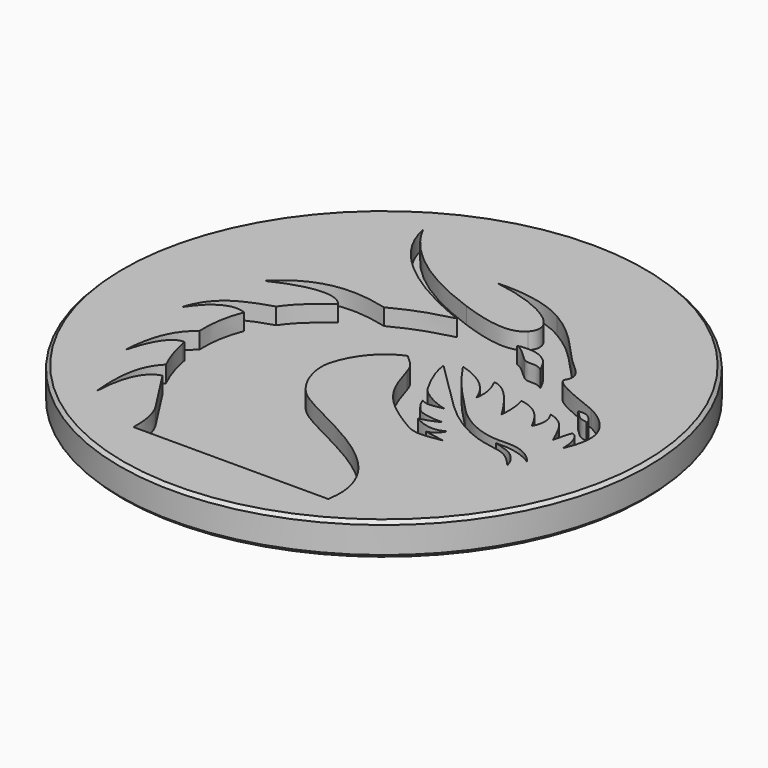
from build123d import *

# Parameters (mm, degrees)
POCKET_DEPTH = 1.25


with BuildPart() as part:
    # Sketch (on DatumPlane) → Revolution (revolve)
    with BuildSketch(Plane.YZ):
        Polygon((0, 0), (0, -2.5), (19.75, -2.5), (20, -2.25), (20, -0.25), (19.75, 0), align=None)
    revolve(axis=Axis((0, 0, 0), (0, 0, 1)))

    # Sketch005 → Pocket (cut)
    with BuildSketch(Plane.XY):
        with BuildLine():
            add(Edge.make_bspline(
                [(14.907899, -1.683514), (15.325951, -0.758941), (15.548565, 0.22301), (15.300548, 1.006965)],
                knots=[0, 0, 0, 0, 1, 1, 1, 1], degree=3))
            add(Edge.make_bspline(
                [(15.300548, 1.006965), (14.975507, 2.034394), (14.062393, 2.778615), (13.095701, 3.254246)],
                knots=[0, 0, 0, 0, 1, 1, 1, 1], degree=3))
            add(Edge.make_bspline(
                [(13.095701, 3.254246), (12.424603, 3.584473), (9.188784, 4.640034), (9.529684, 5.228636)],
                knots=[0, 0, 0, 0, 1, 1, 1, 1], degree=3))
            add(Edge.make_bspline(
                [(9.529684, 5.228636), (10.099183, 6.212359), (8.980529, 6.732538), (8.31366, 7.441055)],
                knots=[0, 0, 0, 0, 1, 1, 1, 1], degree=3))
            add(Edge.make_bspline(
                [(8.31366, 7.441055), (6.534867, 9.330434), (5.891643, 10.202115), (4.094562, 11.283393)],
                knots=[0, 0, 0, 0, 1, 1, 1, 1], degree=3))
            add(Edge.make_bspline(
                [(4.094562, 11.283393), (2.361202, 12.32638), (0.020195, 12.487543), (-1.297541, 12.396175)],
                knots=[0, 0, 0, 0, 1, 1, 1, 1], degree=3))
            add(Edge.make_bspline(
                [(-1.297541, 12.396175), (2.217041, 11.904656), (5.267565, 10.136606), (3.953401, 8.710428)],
                knots=[0, 0, 0, 0, 1, 1, 1, 1], degree=3))
            add(Edge.make_bspline(
                [(3.953401, 8.710428), (3.235997, 7.931702), (1.701548, 8.039601), (-0.921208, 8.970875)],
                knots=[0, 0, 0, 0, 1, 1, 1, 1], degree=3))
            add(Edge.make_bspline(
                [(-0.921208, 8.970875), (-3.68784, 9.953226), (-7.32458, 11.691072), (-9.038508, 15.000343)],
                knots=[0, 0, 0, 0, 1, 1, 1, 1], degree=3))
            add(Edge.make_bspline(
                [(-9.038508, 15.000343), (-8.268798, 11.065423), (-3.650835, 8.669123), (-0.37614, 7.374247)],
                knots=[0, 0, 0, 0, 1, 1, 1, 1], degree=3))
            add(Edge.make_bspline(
                [(-0.37614, 7.374247), (-1.930906, 6.970139), (-2.846592, 6.712293), (-4.635244, 5.799193)],
                knots=[0, 0, 0, 0, 1, 1, 1, 1], degree=3))
            add(Edge.make_bspline(
                [(-4.635244, 5.799193), (-7.140128, 6.438344), (-9.835894, 6.546243), (-12.283628, 4.023114)],
                knots=[0, 0, 0, 0, 1, 1, 1, 1], degree=3))
            add(Edge.make_bspline(
                [(-12.283628, 4.023114), (-9.71645, 5.282014), (-7.719486, 5.398914), (-7.028829, 4.439652)],
                knots=[0, 0, 0, 0, 1, 1, 1, 1], degree=3))
            add(Edge.make_bspline(
                [(-7.028829, 4.439652), (-8.175601, 3.601104), (-8.978072, 2.885029), (-9.677731, 1.892333)],
                knots=[0, 0, 0, 0, 1, 1, 1, 1], degree=3))
            add(Edge.make_bspline(
                [(-9.677731, 1.892333), (-12.036312, 1.15867), (-13.351476, 0.406576), (-13.999986, -1.665969)],
                knots=[0, 0, 0, 0, 1, 1, 1, 1], degree=3))
            add(Edge.make_bspline(
                [(-13.999986, -1.665969), (-12.993188, -0.112489), (-11.78428, 0.584027), (-10.689429, 0.123255)],
                knots=[0, 0, 0, 0, 1, 1, 1, 1], degree=3))
            add(Edge.make_bspline(
                [(-10.689429, 0.123255), (-11.119354, -0.925062), (-11.32148, -2.079735), (-11.271773, -3.376611)],
                knots=[0, 0, 0, 0, 1, 1, 1, 1], degree=3))
            add(Edge.make_bspline(
                [(-11.271773, -3.376611), (-12.29933, -4.217888), (-13.019135, -5.348715), (-13.191299, -8.046195)],
                knots=[0, 0, 0, 0, 1, 1, 1, 1], degree=3))
            add(Edge.make_bspline(
                [(-13.191299, -8.046195), (-12.603097, -5.829775), (-11.800054, -4.970667), (-11.081178, -5.05082)],
                knots=[0, 0, 0, 0, 1, 1, 1, 1], degree=3))
            add(Edge.make_bspline(
                [(-11.081178, -5.05082), (-11.067248, -5.126616), (-11.053046, -5.202825), (-11.037615, -5.279435)],
                knots=[0, 0, 0, 0, 1, 1, 1, 1], degree=3))
            add(Edge.make_bspline(
                [(-11.037615, -5.279435), (-10.830018, -6.311506), (-10.515636, -7.18353), (-10.12613, -7.98763)],
                knots=[0, 0, 0, 0, 1, 1, 1, 1], degree=3))
            add(Edge.make_bspline(
                [(-10.12613, -7.98763), (-11.007012, -8.900201), (-11.503859, -10.123897), (-11.214338, -13.258289)],
                knots=[0, 0, 0, 0, 1, 1, 1, 1], degree=3))
            add(Edge.make_bspline(
                [(-11.214338, -13.258289), (-11.133485, -11.107877), (-10.58133, -9.504677), (-9.397539, -9.223642)],
                knots=[0, 0, 0, 0, 1, 1, 1, 1], degree=3))
            add(Edge.make_bspline(
                [(-9.397539, -9.223642), (-8.816709, -10.127326), (-7.896066, -11.539646), (-7.221696, -12.605636)],
                knots=[0, 0, 0, 0, 1, 1, 1, 1], degree=3))
            add(Edge.make_bspline(
                [(-7.221696, -12.605636), (-6.787684, -13.291765), (-6.579687, -14.341996), (-6.627207, -15.444705)],
                knots=[0, 0, 0, 0, 1, 1, 1, 1], degree=3))
            add(Edge.make_bspline(
                [(-6.627207, -15.444705), (8.136067, -15.444705)],
                knots=[0, 0, 103.33, 103.33], degree=1))
            add(Edge.make_bspline(
                [(8.136067, -15.444705), (9.161023, -9.591688), (0.871159, -7.604011), (-1.292683, -5.717061)],
                knots=[0, 0, 0, 0, 1, 1, 1, 1], degree=3))
            add(Edge.make_bspline(
                [(-1.292683, -5.717061), (-2.271477, -4.863483), (-3.008898, -3.073016), (-2.694573, -1.813001)],
                knots=[0, 0, 0, 0, 1, 1, 1, 1], degree=3))
            add(Edge.make_bspline(
                [(-2.694573, -1.813001), (-2.294423, -0.208086), (-1.09623, 1.276385), (0.354094, 1.809737)],
                knots=[0, 0, 0, 0, 1, 1, 1, 1], degree=3))
            add(Edge.make_bspline(
                [(0.354094, 1.809737), (0.969342, 1.27547), (1.307899, 1.030054), (1.547172, 0.251971)],
                knots=[0, 0, 0, 0, 1, 1, 1, 1], degree=3))
            add(Edge.make_bspline(
                [(1.547172, 0.251971), (2.282192, -2.138899), (2.69723, -3.284471), (6.032304, -5.232857)],
                knots=[0, 0, 0, 0, 1, 1, 1, 1], degree=3))
            add(Edge.make_bspline(
                [(6.032304, -5.232857), (6.962206, -5.775997), (7.918254, -5.4623), (8.747357, -5.348257)],
                knots=[0, 0, 0, 0, 1, 1, 1, 1], degree=3))
            add(Edge.make_bspline(
                [(8.747357, -5.348257), (8.227835, -5.224942), (7.776879, -5.204454), (7.257171, -5.081267)],
                knots=[0, 0, 0, 0, 1, 1, 1, 1], degree=3))
            add(Edge.make_bspline(
                [(7.257171, -5.081267), (7.736131, -4.985526), (8.112249, -4.547), (8.213991, -4.279867)],
                knots=[0, 0, 0, 0, 1, 1, 1, 1], degree=3))
            add(Edge.make_bspline(
                [(8.213991, -4.279867), (7.55818, -4.668273), (6.765381, -4.599721), (5.835122, -4.07447)],
                knots=[0, 0, 0, 0, 1, 1, 1, 1], degree=3))
            add(Edge.make_bspline(
                [(5.835122, -4.07447), (6.310796, -3.972586), (6.929459, -3.72484), (7.282446, -3.533374)],
                knots=[0, 0, 0, 0, 1, 1, 1, 1], degree=3))
            add(Edge.make_bspline(
                [(7.282446, -3.533374), (6.599046, -3.571335), (5.591091, -3.454164), (5.276481, -3.133224)],
                knots=[0, 0, 0, 0, 1, 1, 1, 1], degree=3))
            add(Edge.make_bspline(
                [(5.276481, -3.133224), (5.018763, -2.870319), (4.725683, -2.465797), (4.629957, -2.109767)],
                knots=[0, 0, 0, 0, 1, 1, 1, 1], degree=3))
            add(Edge.make_bspline(
                [(4.629957, -2.109767), (5.173639, -2.438494), (5.836551, -2.145271), (6.288593, -2.108667)],
                knots=[0, 0, 0, 0, 1, 1, 1, 1], degree=3))
            add(Edge.make_bspline(
                [(6.288593, -2.108667), (5.535813, -1.970192), (4.226621, -1.300309), (3.899723, -0.737767)],
                knots=[0, 0, 0, 0, 1, 1, 1, 1], degree=3))
            add(Edge.make_bspline(
                [(3.899723, -0.737767), (3.315336, 0.267244), (2.892926, 1.196475), (2.782712, 2.16631)],
                knots=[0, 0, 0, 0, 1, 1, 1, 1], degree=3))
            add(Edge.make_bspline(
                [(2.782712, 2.16631), (4.026053, 0.96326), (5.355033, -0.408726), (6.530466, -1.539153)],
                knots=[0, 0, 0, 0, 1, 1, 1, 1], degree=3))
            add(Edge.make_bspline(
                [(6.530466, -1.539153), (7.907095, -2.862933), (9.595135, -3.852442), (11.203907, -4.105331)],
                knots=[0, 0, 0, 0, 1, 1, 1, 1], degree=3))
            add(Edge.make_bspline(
                [(11.203907, -4.105331), (12.495997, -4.308413), (12.806536, -4.420399), (13.720507, -5.455885)],
                knots=[0, 0, 0, 0, 1, 1, 1, 1], degree=3))
            add(Edge.make_bspline(
                [(13.720507, -5.455885), (13.270908, -3.925122), (12.057728, -3.880117), (11.42865, -3.655089)],
                knots=[0, 0, 0, 0, 1, 1, 1, 1], degree=3))
            add(Edge.make_bspline(
                [(11.42865, -3.655089), (12.357337, -3.610026), (13.285882, -3.700294), (14.349586, -4.375636)],
                knots=[0, 0, 0, 0, 1, 1, 1, 1], degree=3))
            add(Edge.make_bspline(
                [(14.349586, -4.375636), (13.345932, -3.115093), (12.299044, -3.236094), (11.24877, -3.249752)],
                knots=[0, 0, 0, 0, 1, 1, 1, 1], degree=3))
            add(Edge.make_bspline(
                [(11.24877, -3.249752), (10.163706, -3.263954), (8.551861, -2.708385), (7.294276, -1.40395)],
                knots=[0, 0, 0, 0, 1, 1, 1, 1], degree=3))
            add(Edge.make_bspline(
                [(7.294276, -1.40395), (6.02376, -0.085914), (4.947982, 0.951487), (3.758691, 2.786574)],
                knots=[0, 0, 0, 0, 1, 1, 1, 1], degree=3))
            add(Edge.make_bspline(
                [(3.758691, 2.786574), (5.121404, 2.399525), (6.421452, 1.609869), (6.860364, 0.146386)],
                knots=[0, 0, 0, 0, 1, 1, 1, 1], degree=3))
            add(Edge.make_bspline(
                [(6.860364, 0.146386), (6.998024, 0.931799), (6.861322, 1.671291), (6.450242, 2.365378)],
                knots=[0, 0, 0, 0, 1, 1, 1, 1], degree=3))
            add(Edge.make_bspline(
                [(6.450242, 2.365378), (7.165331, 2.438316), (8.309045, 1.235665), (9.389752, -0.611137)],
                knots=[0, 0, 0, 0, 1, 1, 1, 1], degree=3))
            add(Edge.make_bspline(
                [(9.389752, -0.611137), (9.397667, 0.046188), (9.48112, 0.547122), (9.209744, 1.519987)],
                knots=[0, 0, 0, 0, 1, 1, 1, 1], degree=3))
            add(Edge.make_bspline(
                [(9.209744, 1.519987), (10.364317, 1.327705), (11.026828, 0.729788), (11.686768, -0.611137)],
                knots=[0, 0, 0, 0, 1, 1, 1, 1], degree=3))
            add(Edge.make_bspline(
                [(11.686768, -0.611137), (11.977533, -0.088614), (12.11765, 0.536207), (11.62846, 1.241952)],
                knots=[0, 0, 0, 0, 1, 1, 1, 1], degree=3))
            add(Edge.make_bspline(
                [(11.62846, 1.241952), (12.958527, 0.952701), (13.283381, -0.15298), (13.78673, -1.222928)],
                knots=[0, 0, 0, 0, 1, 1, 1, 1], degree=3))
            add(Edge.make_bspline(
                [(13.78673, -1.222928), (13.924533, -0.642498), (14.037604, -0.138421), (14.147818, 0.128441)],
                knots=[0, 0, 0, 0, 1, 1, 1, 1], degree=3))
            add(Edge.make_bspline(
                [(14.147818, 0.128441), (14.436397, 0.137457), (14.899641, -0.329216), (14.907556, -1.683499)],
                knots=[0, 0, 0, 0, 1, 1, 1, 1], degree=3))
            add(Edge.make_bspline(
                [(14.907556, -1.683499), (14.907899, -1.683514)],
                knots=[0, 0, 0.002402, 0.002402], degree=1))
        make_face()
        with BuildLine():
            add(Edge.make_bspline(
                [(13.309413, 2.538157), (13.539128, 2.423714), (13.909503, 2.16381), (13.967138, 1.751501)],
                knots=[0, 0, 0, 0, 1, 1, 1, 1], degree=3))
            add(Edge.make_bspline(
                [(13.967138, 1.751501), (13.745339, 1.902277), (13.556744, 1.770761), (13.212987, 2.042952)],
                knots=[0, 0, 0, 0, 1, 1, 1, 1], degree=3))
            add(Edge.make_bspline(
                [(13.212987, 2.042952), (12.887275, 2.301884), (12.809422, 2.490222), (12.640901, 2.56246)],
                knots=[0, 0, 0, 0, 1, 1, 1, 1], degree=3))
            add(Edge.make_bspline(
                [(12.640901, 2.56246), (12.867872, 2.619553), (13.160137, 2.612723), (13.309413, 2.538157)],
                knots=[0, 0, 0, 0, 1, 1, 1, 1], degree=3))
        make_face(mode=Mode.SUBTRACT)
        with BuildLine():
            add(Edge.make_bspline(
                [(6.371689, 6.753827), (7.026142, 6.426614), (7.131841, 6.222031), (7.585398, 5.339364)],
                knots=[0, 0, 0, 0, 1, 1, 1, 1], degree=3))
            add(Edge.make_bspline(
                [(7.585398, 5.339364), (6.906099, 5.865573), (6.531752, 5.38717), (6.020202, 5.781033)],
                knots=[0, 0, 0, 0, 1, 1, 1, 1], degree=3))
            add(Edge.make_bspline(
                [(6.020202, 5.781033), (5.547672, 6.144865), (5.210344, 6.66533), (4.585451, 6.871284)],
                knots=[0, 0, 0, 0, 1, 1, 1, 1], degree=3))
            add(Edge.make_bspline(
                [(4.585451, 6.871284), (5.231704, 7.032576), (5.946793, 6.966196), (6.371675, 6.753827)],
                knots=[0, 0, 0, 0, 1, 1, 1, 1], degree=3))
            add(Edge.make_bspline(
                [(6.371675, 6.753827), (6.371689, 6.753827)],
                knots=[0, 0, 0.0001, 0.0001], degree=1))
        make_face(mode=Mode.SUBTRACT)
    extrude(amount=-POCKET_DEPTH, mode=Mode.SUBTRACT)


solid = part.part
